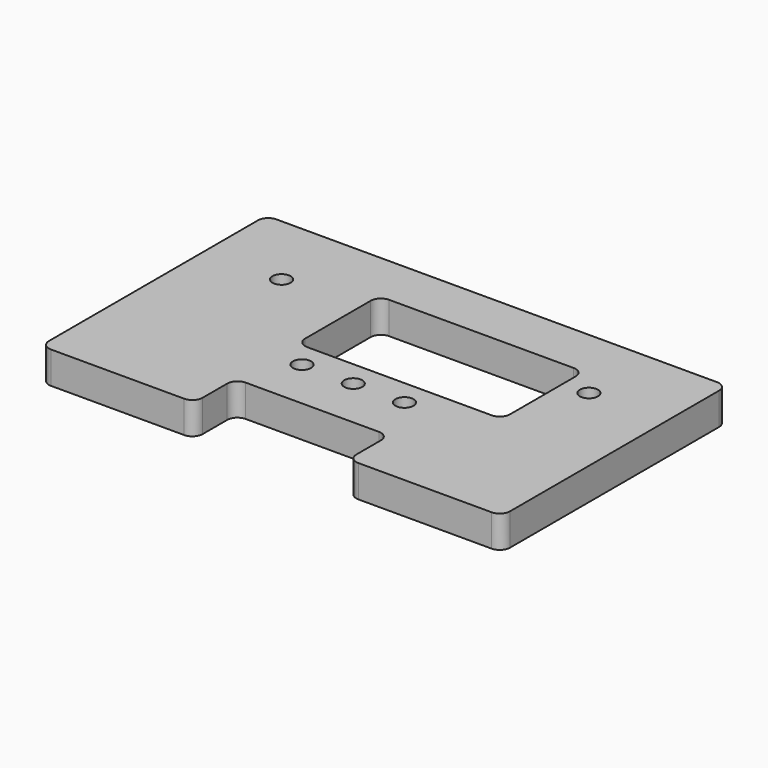
from build123d import *

# Parameters (mm, degrees)
F0_R     = 0.4490128061
F0_W     = 10.16
F0_H     = 5.08
F3_DEPTH = 1.5875
F4_R     = 0.508


with BuildPart() as f3:
    # F0 (on Top) → F3 (new body)
    with BuildSketch(Plane.XY):
        Polygon((24.13, 0), (24.13, 13.97), (1.27, 13.97), (1.27, 0), (8.89, 0), (8.89, 2.54), (16.51, 2.54), (16.51, 0), align=None)
        with Locations((10.16, 5.08)):
            Circle(F0_R, mode=Mode.SUBTRACT)
        with Locations((12.7, 5.08)):
            Circle(F0_R, mode=Mode.SUBTRACT)
        with Locations((15.24, 5.08)):
            Circle(F0_R, mode=Mode.SUBTRACT)
        with Locations((5.08, 10.16)):
            Circle(F0_R, mode=Mode.SUBTRACT)
        with Locations((13.97, 8.89)):
            Rectangle(F0_W, F0_H, mode=Mode.SUBTRACT)
        with Locations((20.32, 10.16)):
            Circle(F0_R, mode=Mode.SUBTRACT)
    extrude(amount=F3_DEPTH)

    # F4
    f4_edges = [f3.edges().sort_by_distance(p)[0] for p in [
        (1.27, 0, 0.79375),
        (8.89, 0, 0.79375),
        (16.51, 2.54, 0.79375),
        (16.51, 0, 0.79375),
        (24.13, 0, 0.79375),
        (8.89, 11.43, 0.79375),
        (8.89, 2.54, 0.79375),
        (24.13, 13.97, 0.79375),
        (8.89, 6.35, 0.79375),
        (1.27, 13.97, 0.79375),
        (19.05, 6.35, 0.79375),
        (19.05, 11.43, 0.79375),
    ]]
    fillet(f4_edges, radius=F4_R)


solid = f3.part
